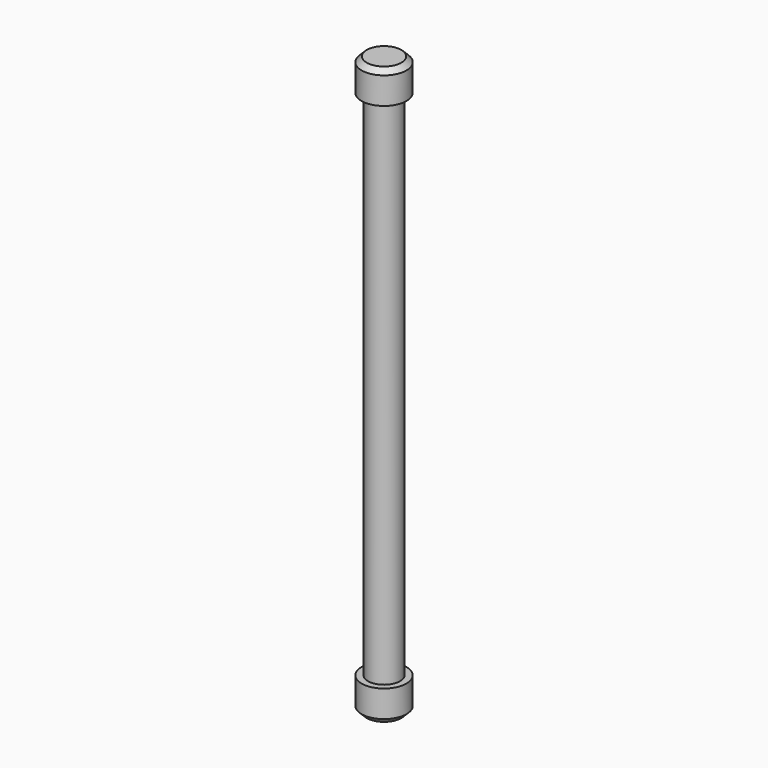
from build123d import *

# Parameters (mm, degrees)
F0_R     = 3.33375
F1_DEPTH = 4.7625
F2_R     = 2.38125
F3_DEPTH = 76.2
F4_R     = 3.33375
F5_DEPTH = 4.7625
F6_SIZE  = 0.762


with BuildPart() as f1:
    # F0 (on Top) → F1 (new body)
    with BuildSketch(Plane.XY):
        Circle(F0_R)
    extrude(amount=-F1_DEPTH)

    # F2 (on face) → F3 (join)
    with BuildSketch(Plane(origin=(0, 0, -4.7625), x_dir=(1, 0, 0), z_dir=(0, 0, -1))):
        Circle(F2_R)
    extrude(amount=F3_DEPTH)

    # F4 (on face) → F5 (join)
    with BuildSketch(Plane(origin=(0, 0, -80.9625), x_dir=(1, 0, 0), z_dir=(0, 0, -1))):
        Circle(F4_R)
    extrude(amount=F5_DEPTH)

    # F6
    f6_edges = [f1.edges().sort_by_distance(p)[0] for p in [
        (-3.33375, 0, 0),
        (-3.33375, 0, -85.725),
    ]]
    chamfer(f6_edges, length=F6_SIZE)


solid = f1.part
